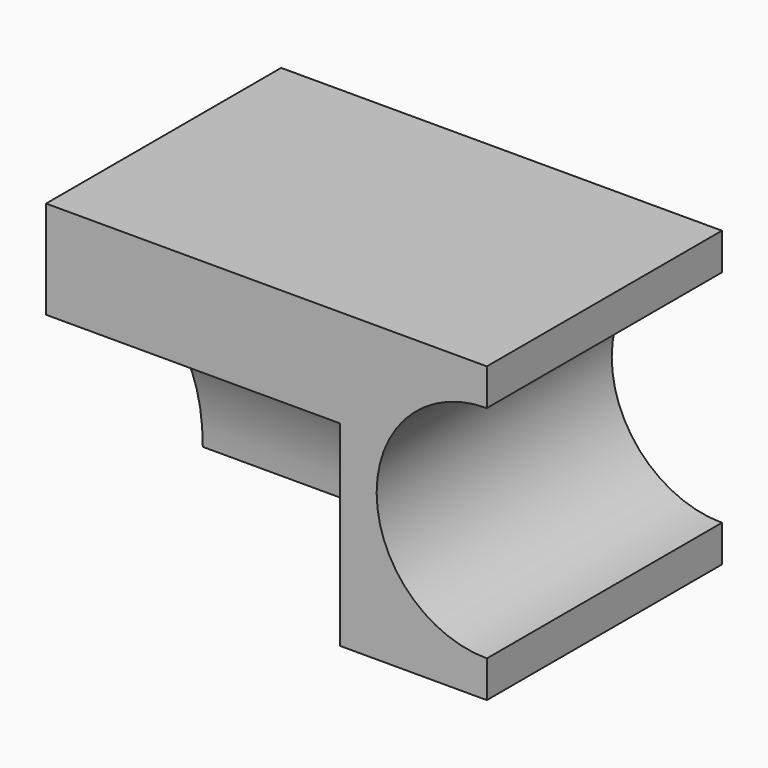
from build123d import *

# Parameters (mm, degrees)
F1_DEPTH = 60
F3_DEPTH = 60


with BuildPart() as f1:
    # F0 (on Front) → F1 (new body)
    with BuildSketch(Plane.XZ):
        with BuildLine():
            Line((0, 60), (0, 0))
            Line((0, 0), (90, 0))
            Line((90, 0), (90, 7.5))
            ThreePointArc((90, 7.5), (67.5, 30), (90, 52.5))
            Line((90, 52.5), (90, 60))
            Line((90, 60), (0, 60))
        make_face()
    extrude(amount=F1_DEPTH)

    # F2 (on face) → F3 (cut)
    with BuildSketch(Plane(origin=(0, 0, 0), x_dir=(0, -1, 0), z_dir=(-1, 0, 0))):
        with BuildLine():
            Line((60, 0), (60, 40))
            ThreePointArc((60, 40), (31.715729, 28.284271), (20, 0))
            Line((20, 0), (60, 0))
        make_face()
    extrude(amount=-F3_DEPTH, mode=Mode.SUBTRACT)


solid = f1.part
